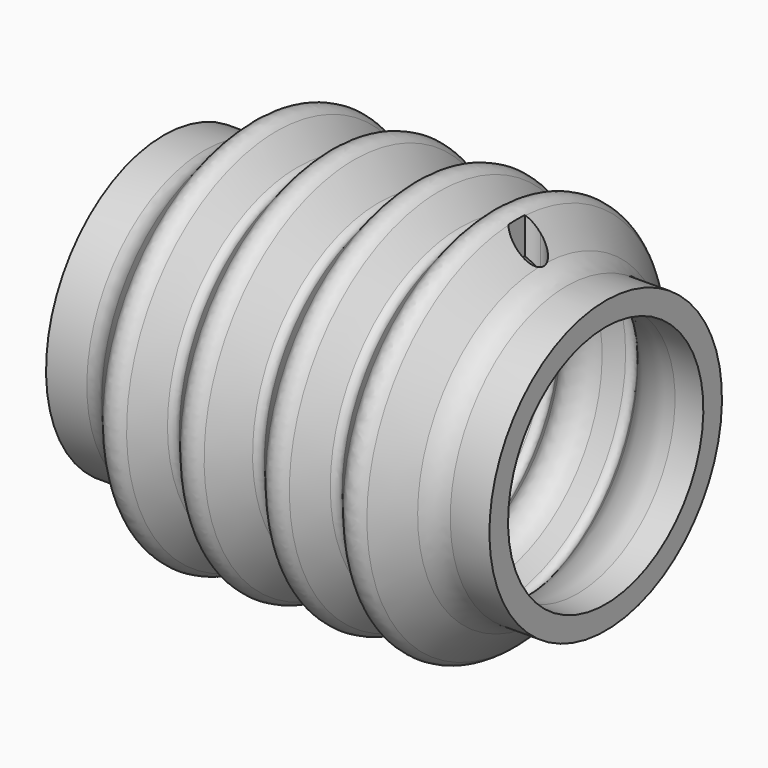
from build123d import *

# Parameters (mm, degrees)
F2_R      = 2
F3_R      = 1
F4_R      = 10
F5_R      = 4
F6_R      = 3.5
F7_R      = 1
F9_DEPTH  = 50
F10_DEPTH = 50


with BuildPart() as f1:
    # F0 (on Front) → F1 (revolve)
    with BuildSketch(Plane.XZ):
        Polygon((7.1263025818, 19), (0, 19), (0, 16), (8.5252255562, 16), (13, 21.3328285194), (18, 15.3740605564), (23, 21.3328285194), (28.5, 14.7781837602), (34, 21.3328285194), (39, 15.3740605564), (44, 21.3328285194), (48.6845493516, 15.75), (57, 15.75), (57, 18.75), (50.083472326, 18.75), (44, 26), (39, 20.041232037), (34, 26), (28.5, 19.4453552407), (23, 26), (18, 20.041232037), (13, 26), align=None)
    revolve(axis=Axis((32.149547711, 0, 0), (-1, 0, 0)))

    # F2
    f2_edges = [f1.edges().sort_by_distance(p)[0] for p in [
        (13, 0, -26),
        (23, 0, -26),
        (34, 0, -26),
        (44, 0, -26),
    ]]
    fillet(f2_edges, radius=F2_R)

    # F3
    f3_edges = [f1.edges().sort_by_distance(p)[0] for p in [
        (13, 0, -21.332829),
        (23, 0, -21.332829),
        (34, 0, -21.332829),
        (44, 0, -21.332829),
    ]]
    fillet(f3_edges, radius=F3_R)

    # F4
    f4_edges = [f1.edges().sort_by_distance(p)[0] for p in [
        (8.525226, 0, -16),
        (48.684549, 0, -15.75),
    ]]
    fillet(f4_edges, radius=F4_R)

    # F5
    f5_edges = [f1.edges().sort_by_distance(p)[0] for p in [
        (50.083472, 0, -18.75),
        (7.126303, 0, -19),
    ]]
    fillet(f5_edges, radius=F5_R)

    # F6
    f6_edges = [f1.edges().sort_by_distance(p)[0] for p in [
        (18, 0, -15.374061),
        (28.5, 0, -14.778184),
        (39, 0, -15.374061),
    ]]
    fillet(f6_edges, radius=F6_R)

    # F7
    f7_edges = [f1.edges().sort_by_distance(p)[0] for p in [
        (18, 0, -20.041232),
        (28.5, 0, -19.445355),
        (39, 0, -20.041232),
    ]]
    fillet(f7_edges, radius=F7_R)

    # F8 (on Top) → F9 (cut)
    with BuildSketch(Plane.XY):
        with BuildLine():
            Line((11.5, -1.3228756555), (11.5, 1.3228756555))
            ThreePointArc((11.5, 1.3228756555), (8, 0), (11.5, -1.3228756555))
        make_face()
    extrude(amount=-F9_DEPTH, mode=Mode.SUBTRACT)

    # F8 (on Top) → F10 (cut)
    with BuildSketch(Plane.XY):
        with BuildLine():
            ThreePointArc((47, -2), (49, 0), (47, 2))
            Line((47, 2), (47, -2))
        make_face()
        with BuildLine():
            Line((47, -2), (47, 2))
            ThreePointArc((47, 2), (46.1771243445, 1.8228756555), (45.5, 1.3228756555))
            Line((45.5, 1.3228756555), (45.5, -1.3228756555))
            ThreePointArc((45.5, -1.3228756555), (46.1771243445, -1.8228756555), (47, -2))
        make_face()
    extrude(amount=F10_DEPTH, mode=Mode.SUBTRACT)


solid = f1.part
